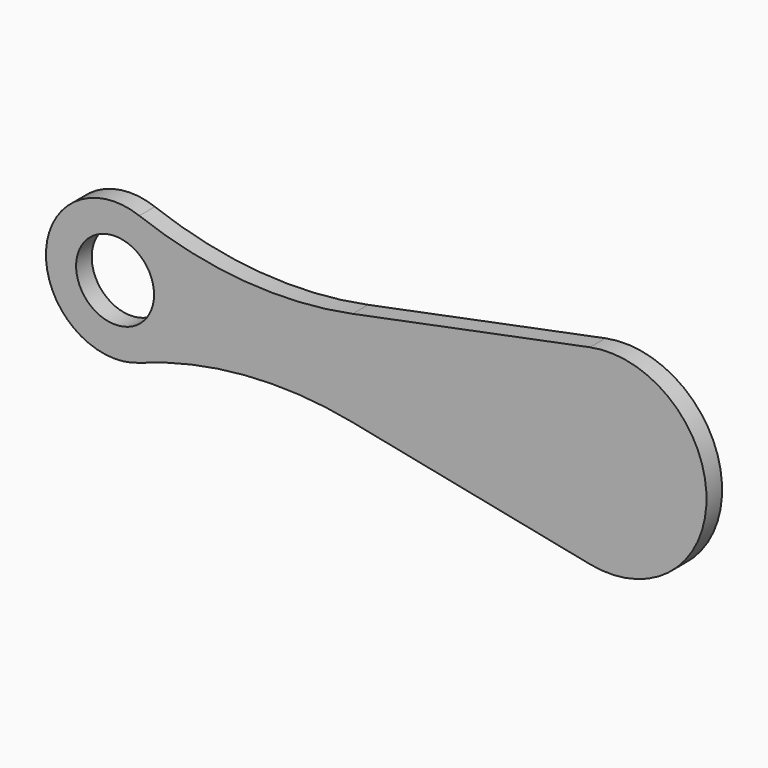
from build123d import *

# Parameters (mm, degrees)
F0_R     = 10
F1_DEPTH = 5


with BuildPart() as f1:
    # F0 (on Front) → F1 (new body)
    with BuildSketch(Plane.XZ):
        with BuildLine():
            Line((-40.86877, -12.25428), (20.07117, -24.509317))
            ThreePointArc((20.07117, -24.509317), (50, 0), (20.07117, 24.509317))
            Line((20.07117, 24.509317), (-40.86877, 12.25428))
            ThreePointArc((-40.86877, 12.25428), (-68.536492, 10.608254), (-95.593301, 16.620021))
            ThreePointArc((-95.593301, 16.620021), (-119.547816, 0), (-95.593301, -16.620021))
            ThreePointArc((-95.593301, -16.620021), (-68.536492, -10.608254), (-40.86877, -12.25428))
        make_face()
        with Locations((-101.804942, 0)):
            Circle(F0_R, mode=Mode.SUBTRACT)
    extrude(amount=F1_DEPTH)


solid = f1.part
